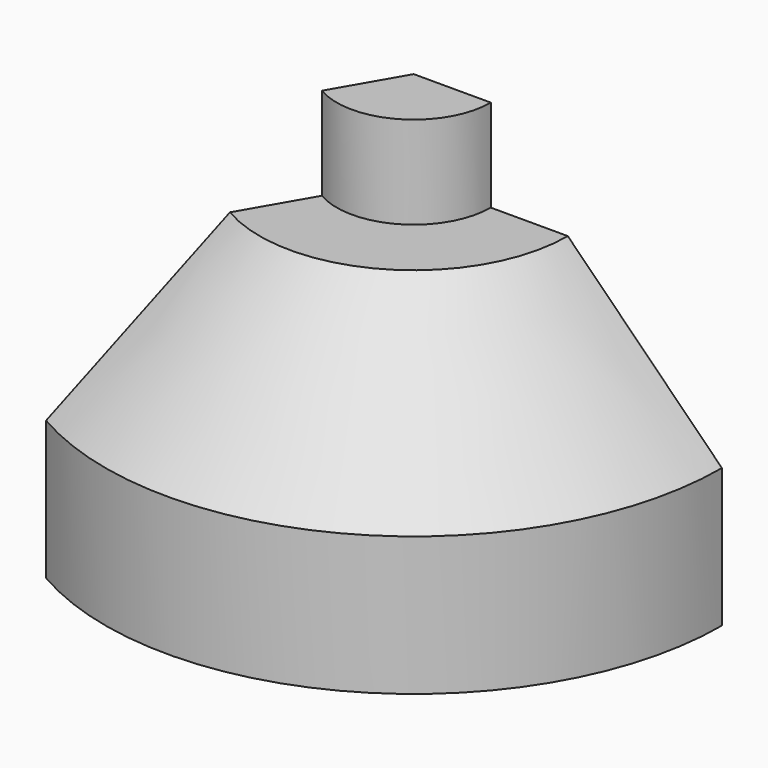
from build123d import *

# Parameters (mm, degrees)
F1_ANGLE = 120


with BuildPart() as f1:
    # F0 (on Front) → F1 (revolve)
    with BuildSketch(Plane.XZ):
        Polygon((25.919337, 20.709641), (15.919337, 20.709641), (15.919337, -14.290359), (35.919337, -14.290359), (35.919337, -29.290359), (55.919337, -29.290359), (55.919337, -11.290359), (35.919337, 8.709641), (25.919337, 8.709641), align=None)
    revolve(axis=Axis((15.919337, 0, 3.209641), (0, 0, -1)), revolution_arc=F1_ANGLE)


solid = f1.part
